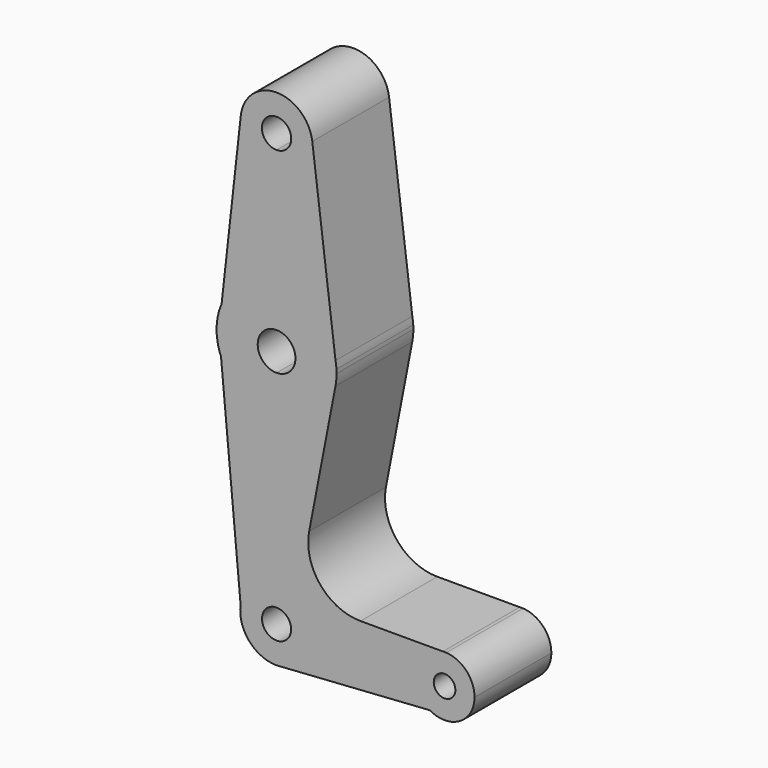
from build123d import *

# Parameters (mm, degrees)
F1_DEPTH = 25.4


with BuildPart() as f1:
    # F0 (on Front) → F1 (new body)
    with BuildSketch(Plane.XZ):
        with BuildLine():
            Line((-9.0993962158, -3.1143001494), (-9.5157433692, 1.3958886217))
            ThreePointArc((-9.5157433692, 1.3958886217), (-9.5768630631, -0.8840649199), (-9.0993962158, -3.1143001494))
        make_face()
        with BuildLine():
            ThreePointArc((0, -9.6175816561), (0.6447692536, -9.5959444309), (1.2866373584, -9.5311301124))
            Line((1.2866373584, -9.5311301124), (0, -9.6175816561))
        make_face()
        with BuildLine():
            ThreePointArc((44.8987295624, 7.924805867), (44.45, 7.9375), (44.0012704376, 7.924805867))
            Line((44.0012704376, 7.924805867), (44.8987295624, 7.924805867))
        make_face()
        with BuildLine():
            Line((15.6009559029, 66.4369712147), (15.8431126272, 64.5056874674))
            ThreePointArc((15.8431126272, 64.5056874674), (15.7516610445, 65.4750441364), (15.6009559029, 66.4369712147))
        make_face()
        with BuildLine():
            ThreePointArc((-14.535897452, 69.8814818237), (-15.7772599915, 65.2588894677), (-15.5843994353, 60.4764062373))
            Line((-15.5843994353, 60.4764062373), (-14.535897452, 69.8814818237))
        make_face()
        with BuildLine():
            ThreePointArc((-9.5157433692, 1.3958886217), (-6.2877978701, 7.2774634906), (0, 9.6175816561))
            Line((0, 9.6175816561), (0, 47.625))
            ThreePointArc((0, 47.625), (-8.849704349, 50.3205327143), (-14.6940962464, 57.4917423074))
            Line((-14.6940962464, 57.4917423074), (-9.5157433692, 1.3958886217))
        make_face()
        with BuildLine():
            ThreePointArc((-14.535897452, 69.8814818237), (-8.6807142865, 76.7913815864), (0, 79.375))
            Line((0, 79.375), (0, 104.775))
            ThreePointArc((0, 104.775), (-7.0993647554, 107.9498310991), (-9.4660714511, 115.357882925))
            Line((-9.4660714511, 115.357882925), (-14.535897452, 69.8814818237))
        make_face()
        with BuildLine():
            Line((0, 104.775), (0, 79.375))
            ThreePointArc((0, 79.375), (10.1338839289, 75.7196571767), (15.6009559029, 66.4369712147))
            Line((15.6009559029, 66.4369712147), (9.4509966267, 115.4850264818))
            ThreePointArc((9.4509966267, 115.4850264818), (9.5064811542, 114.8936674705), (9.525, 114.3))
            ThreePointArc((9.525, 114.3), (6.7351920908, 107.5648079092), (0, 104.775))
        make_face()
        with BuildLine():
            Line((36.5125, 0), (9.6175816561, 0))
            ThreePointArc((9.6175816561, 0), (7.2412780905, -6.3294366675), (1.2866373584, -9.5311301124))
            Line((1.2866373584, -9.5311301124), (40.5179037022, -6.8951087704))
            ThreePointArc((40.5179037022, -6.8951087704), (37.5865125259, -3.9870347306), (36.5125, 0))
        make_face()
        with BuildLine():
            ThreePointArc((9.4509966267, 115.4850264818), (-0.064017057, 123.8247848698), (-9.4660714511, 115.357882925))
            ThreePointArc((-9.4660714511, 115.357882925), (-7.0993647554, 107.9498310991), (0, 104.775))
            ThreePointArc((0, 104.775), (6.7351920908, 107.5648079092), (9.525, 114.3))
            ThreePointArc((9.525, 114.3), (9.5064811542, 114.8936674705), (9.4509966267, 115.4850264818))
        make_face()
        with BuildLine():
            ThreePointArc((3.8802388174, 114.3), (2.7437431804, 111.5562568196), (0, 110.4197611826))
            ThreePointArc((0, 110.4197611826), (-2.7437431804, 117.0437431804), (3.8802388174, 114.3))
        make_face(mode=Mode.SUBTRACT)
        with BuildLine():
            ThreePointArc((44.0012704376, 7.924805867), (38.680871073, 5.4517022731), (36.5125, 0))
            ThreePointArc((36.5125, 0), (37.5865125259, -3.9870347306), (40.5179037022, -6.8951087704))
            ThreePointArc((40.5179037022, -6.8951087704), (48.4370347306, -6.8634874741), (52.3875, 0))
            ThreePointArc((52.3875, 0), (50.219128927, 5.4517022731), (44.8987295624, 7.924805867))
            Line((44.8987295624, 7.924805867), (44.0012704376, 7.924805867))
        make_face()
        with BuildLine():
            ThreePointArc((47.3139224762, 0), (44.45, -2.8639224762), (41.5860775238, 0))
            ThreePointArc((41.5860775238, 0), (44.45, 2.8639224762), (47.3139224762, 0))
        make_face(mode=Mode.SUBTRACT)
        with BuildLine():
            Line((0, 58.5082662054), (0, 47.625))
            ThreePointArc((0, 47.625), (10.1067179605, 51.2578646852), (15.5877554471, 60.4937556452))
            ThreePointArc((15.5877554471, 60.4937556452), (15.8030257027, 61.9900319081), (15.875, 63.5))
            ThreePointArc((15.875, 63.5), (15.8670261542, 64.0030964338), (15.8431126272, 64.5056874674))
            Line((15.8431126272, 64.5056874674), (15.6009559029, 66.4369712147))
            ThreePointArc((15.6009559029, 66.4369712147), (10.1338839289, 75.7196571767), (0, 79.375))
            Line((0, 79.375), (0, 68.4917337946))
            ThreePointArc((0, 68.4917337946), (3.5296888161, 67.0296888161), (4.9917337946, 63.5))
            ThreePointArc((4.9917337946, 63.5), (3.5296888161, 59.9703111839), (0, 58.5082662054))
        make_face()
        with BuildLine():
            ThreePointArc((-14.6940962464, 57.4917423074), (-8.849704349, 50.3205327143), (0, 47.625))
            Line((0, 47.625), (0, 58.5082662054))
            ThreePointArc((0, 58.5082662054), (-4.9917337946, 63.5), (0, 68.4917337946))
            Line((0, 68.4917337946), (0, 79.375))
            ThreePointArc((0, 79.375), (-8.6807142865, 76.7913815864), (-14.535897452, 69.8814818237))
            Line((-14.535897452, 69.8814818237), (-15.5843994353, 60.4764062373))
            ThreePointArc((-15.5843994353, 60.4764062373), (-15.2126223867, 58.9621871877), (-14.6940962464, 57.4917423074))
        make_face()
        with BuildLine():
            ThreePointArc((3.8500225809, 0), (-2.7223770747, -2.7223770747), (0, 3.8500225809))
            Line((0, 3.8500225809), (0, 9.6175816561))
            ThreePointArc((0, 9.6175816561), (-6.2877978701, 7.2774634906), (-9.5157433692, 1.3958886217))
            Line((-9.5157433692, 1.3958886217), (-9.0993962158, -3.1143001494))
            ThreePointArc((-9.0993962158, -3.1143001494), (-5.5922196364, -7.8246377839), (0, -9.6175816561))
            Line((0, -9.6175816561), (1.2866373584, -9.5311301124))
            ThreePointArc((1.2866373584, -9.5311301124), (7.2412780905, -6.3294366675), (9.6175816561, 0))
            Line((9.6175816561, 0), (3.8500225809, 0))
        make_face()
        with BuildLine():
            Line((0, 47.625), (0, 9.6175816561))
            ThreePointArc((0, 9.6175816561), (6.8006572076, 6.8006572076), (9.6175816561, 0))
            Line((9.6175816561, 0), (36.5125, 0))
            ThreePointArc((36.5125, 0), (38.680871073, 5.4517022731), (44.0012704376, 7.924805867))
            Line((44.0012704376, 7.924805867), (22.2047249099, 7.924805867))
            ThreePointArc((22.2047249099, 7.924805867), (11.5375167972, 12.9510094978), (8.6223042709, 24.3770143895))
            Line((8.6223042709, 24.3770143895), (15.5877554471, 60.4937556452))
            ThreePointArc((15.5877554471, 60.4937556452), (10.1067179605, 51.2578646852), (0, 47.625))
        make_face()
        with BuildLine():
            Line((0, 9.6175816561), (0, 3.8500225809))
            ThreePointArc((0, 3.8500225809), (2.7223770747, 2.7223770747), (3.8500225809, 0))
            Line((3.8500225809, 0), (9.6175816561, 0))
            ThreePointArc((9.6175816561, 0), (6.8006572076, 6.8006572076), (0, 9.6175816561))
        make_face()
    extrude(amount=F1_DEPTH)


solid = f1.part
